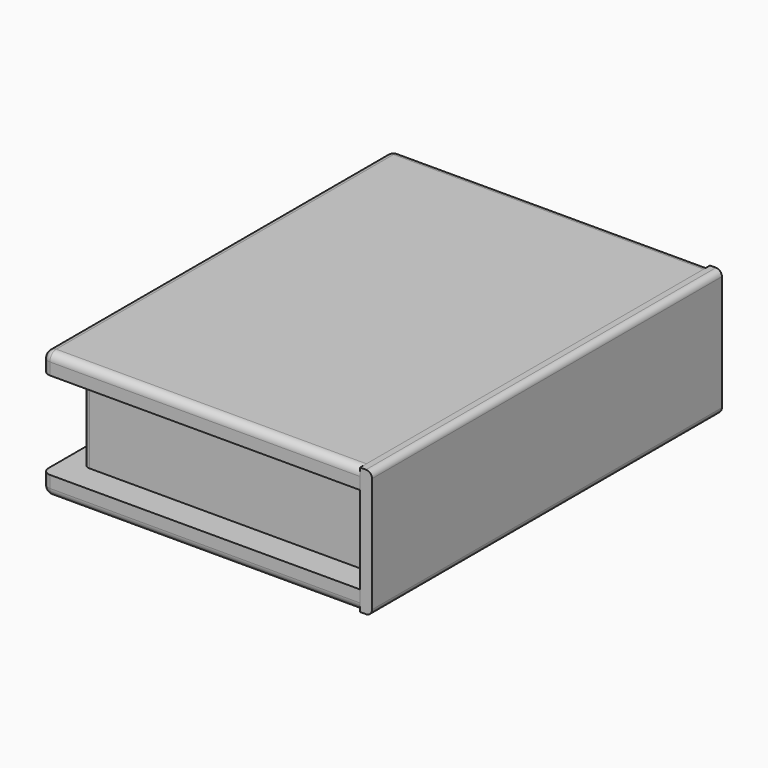
from build123d import *

# Parameters (mm, degrees)
F3_W      = 80
F3_H      = 110
F4_DEPTH  = 5
F6_W      = 110
F6_H      = 32
F7_DEPTH  = 3
F8_R      = 2
F9_R      = 1.5
F11_W     = 75
F11_H     = 96
F12_DEPTH = 25
F13_R     = 1.5


with BuildPart() as f4:
    # F0 (on Top) + F3 (on offset) → F4 (new body)
    with BuildSketch(Plane.XY):
        Polygon((-40, -55), (40, -55), (40, -48), (40, 48), (40, 55), (-40, 55), align=None)
    with BuildSketch(Plane.XY.offset(27)):
        Rectangle(F3_W, F3_H)
    extrude(amount=F4_DEPTH)

    # F8
    f8_edges = [f4.edges().sort_by_distance(p)[0] for p in [
        (0, 55, 32),
        (0, -55, 32),
        (-40, 0, 32),
        (-40, 55, 29.5),
        (-40, -55, 29.5),
        (-40, 55, 2.5),
        (-40, -55, 2.5),
        (-40, 0, 0),
        (0, 55, 0),
        (0, -55, 0),
    ]]
    fillet(f8_edges, radius=F8_R)


with BuildPart() as f7:
    # F6 (on offset) → F7 (new body)
    with BuildSketch(Plane.YZ.offset(40)):
        with Locations((4e-06, 16)):
            Rectangle(F6_W, F6_H)
    extrude(amount=F7_DEPTH)

    # F9
    f9_edges = [f7.edges().sort_by_distance(p)[0] for p in [
        (43, 4e-06, 0),
        (43, 4e-06, 32),
    ]]
    fillet(f9_edges, radius=F9_R)


with BuildPart() as f12:
    # F11 (on offset) → F12 (new body)
    with BuildSketch(Plane.XY.offset(5)):
        with Locations((2.312253, 4e-06)):
            Rectangle(F11_W, F11_H)
    extrude(amount=F12_DEPTH)

    # F13
    f13_edges = [f12.edges().sort_by_distance(p)[0] for p in [
        (-35.187747, 48.000004, 17.5),
        (-35.187747, -47.999996, 17.5),
    ]]
    fillet(f13_edges, radius=F13_R)


solid = Compound([f4.part, f7.part, f12.part])
